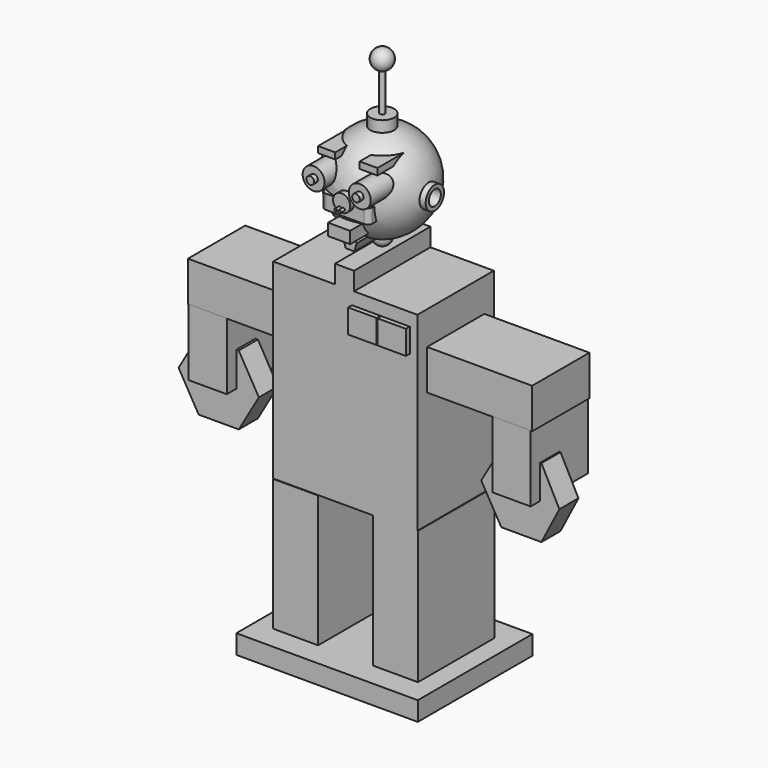
from build123d import *

# Parameters (mm, degrees)
F2_R      = 11.5
F3_DEPTH  = 60
F4_R      = 4
F5_DEPTH  = 65
F6_R      = 9
F7_DEPTH  = 55
F8_W      = 23
F8_H      = 12.369995437
F9_DEPTH  = 60
F10_W     = 18.0283002555
F10_H     = 6.5377391875
F10_W_2   = 18.622642383
F10_H_2   = 6.9339629263
F11_DEPTH = 45
F12_R     = 12
F13_DEPTH = 55
F14_R     = 12
F15_DEPTH = 55
F16_R     = 5
F17_DEPTH = 55
F17_TAPER = -3
F18_R     = 5
F19_DEPTH = 55
F19_TAPER = -3
F20_W     = 50
F20_H     = 15
F21_DEPTH = 50
F22_R     = 1.5
F23_DEPTH = 60
F24_R     = 12.5
F25_DEPTH = 60
F26_R     = 2.5
F27_DEPTH = 100
F31_DEPTH = 45
F34_W     = 20
F34_H     = 19
F35_DEPTH = 50
F36_W     = 110
F36_H     = 42
F37_DEPTH = 37.5
F36_W_2   = 100
F38_W     = 40
F38_H     = 70
F39_DEPTH = 37.5
F40_W     = 15
F40_H     = 25
F41_DEPTH = 55
F42_W     = 30
F42_H     = 25
F43_DEPTH = 55
F44_R     = 5
F46_DEPTH = 25
F47_W     = 47
F47_H     = 150
F48_DEPTH = 50
F49_W     = 190
F49_H     = 20
F50_DEPTH = 75


with BuildPart() as f1:
    # F0 (on Front) → F1 (revolve)
    with BuildSketch(Plane.XZ):
        with BuildLine():
            Line((0, 50), (0, -50))
            ThreePointArc((0, -50), (50, 0), (0, 50))
        make_face()
    revolve(axis=Axis((0, 0, 0), (0, 0, -1)))

    # F2 (on Front) → F3 (join)
    with BuildSketch(Plane.XZ):
        with Locations((-23.9083962179, 16.4130615757)):
            Circle(F2_R)
        with Locations((24.4058933078, 15.6637279039)):
            Circle(F2_R)
    extrude(amount=F3_DEPTH)

    # F4 (on Front) → F5 (join)
    with BuildSketch(Plane.XZ):
        with Locations((-23.4572058426, 16.7492137234)):
            Circle(F4_R)
        with Locations((24.4460367508, 16.152908656)):
            Circle(F4_R)
    extrude(amount=F5_DEPTH)

    # F6 (on Front) → F7 (join)
    with BuildSketch(Plane.XZ):
        with Locations((1.4495220945, 0)):
            Circle(F6_R)
    extrude(amount=F7_DEPTH)

    # F8 (on Front) → F9 (join)
    with BuildSketch(Plane.XZ):
        with Locations((2.7524938345, -25.5566034466)):
            Rectangle(F8_W, F8_H)
    extrude(amount=F9_DEPTH)

    # F10 (on Front) → F11 (join)
    with BuildSketch(Plane.XZ):
        with Locations((-22.2800616175, 34.570755437)):
            Rectangle(F10_W, F10_H)
        with Locations((21.6020131484, 34.3726435676)):
            Rectangle(F10_W_2, F10_H_2)
    extrude(amount=F11_DEPTH)

    # F12 (on Right) → F13 (join)
    with BuildSketch(Plane.YZ):
        Circle(F12_R)
    extrude(amount=-F13_DEPTH)

    # F14 (on Right) → F15 (join)
    with BuildSketch(Plane.YZ):
        Circle(F14_R)
    extrude(amount=F15_DEPTH)

    # F16 (on Right) → F17 (cut)
    with BuildSketch(Plane.YZ):
        Circle(F16_R)
    extrude(amount=F17_DEPTH, taper=F17_TAPER, mode=Mode.SUBTRACT)

    # F18 (on Right) → F19 (cut)
    with BuildSketch(Plane.YZ):
        Circle(F18_R)
    extrude(amount=-F19_DEPTH, taper=F19_TAPER, mode=Mode.SUBTRACT)

    # F20 (on Front) → F21 (join)
    with BuildSketch(Plane.XZ):
        with Locations((0.9302317107, -7.5)):
            Rectangle(F20_W, F20_H)
    extrude(amount=F21_DEPTH)

    # F22 (on Front) → F23 (join)
    with BuildSketch(Plane.XZ):
        with Locations((-0.7250620033, -5.1486683078)):
            Circle(F22_R)
        with Locations((3.2749379967, -5.1486683078)):
            Circle(F22_R)
    extrude(amount=F23_DEPTH)

    # F24 (on Top) → F25 (join)
    with BuildSketch(Plane.XY):
        Circle(F24_R)
    extrude(amount=F25_DEPTH)

    # F26 (on Top) → F27 (join)
    with BuildSketch(Plane.XY):
        Circle(F26_R)
    extrude(amount=F27_DEPTH)

    # F30 (on Front) → F31 (join)
    with BuildSketch(Plane.XZ):
        Polygon((-2.3694857564, -46.9150984141), (6.6305142436, -46.9150984141), (9.411667193, -38.3555897674), (2.1305142436, -33.0655224968), (-5.1506387058, -38.3555897674), align=None)
    extrude(amount=F31_DEPTH)

    # F44
    f44_edges = [f1.edges().sort_by_distance(p)[0] for p in [
        (-24.069768, -50, -7.5),
        (25.930232, -50, -7.5),
    ]]
    fillet(f44_edges, radius=F44_R)


with BuildPart() as f29:
    # F28 (on Front) → F29 (revolve)
    with BuildSketch(Plane.XZ):
        with BuildLine():
            Line((0, 120.5619385546), (0, 99.7685382063))
            ThreePointArc((0, 99.7685382063), (10.3967001741, 110.1652383804), (0, 120.5619385546))
        make_face()
    revolve(axis=Axis((0, 0, 110.1652383804), (0, 0, -1)))


with BuildPart() as f33:
    # F32 (on Front) → F33 (revolve)
    with BuildSketch(Plane.XZ):
        with BuildLine():
            Line((0, -43.6485756276), (0, -61.6485756276))
            ThreePointArc((0, -61.6485756276), (9, -52.6485756276), (0, -43.6485756276))
        make_face()
    revolve(axis=Axis((0, 0, -52.6485756276), (0, 0, -1)))

    # F34 (on Front) → F35 (join, symmetric)
    with BuildSketch(Plane.XZ):
        Polygon((76.7647246684, -280.5166527629), (76.7647246684, -80.5166527629), (10.4020354152, -80.5166527629), (-9.5979645848, -80.5166527629), (-74.2352753316, -80.5166527629), (-74.2352753316, -280.5166527629), align=None)
        with Locations((0.4020354152, -71.0166527629)):
            Rectangle(F34_W, F34_H)
    extrude(amount=F35_DEPTH, both=True)

    # F47 (on Front) → F48, piece 2 (join, symmetric)
    with BuildSketch(Plane.XZ):
        with Locations((53.8207172751, -354.5363664627)):
            Rectangle(F47_W, F47_H)
    extrude(amount=F48_DEPTH, both=True)


with BuildPart() as f37:
    # F36 (on Front) → F37 (new body, symmetric)
    with BuildSketch(Plane.XZ):
        with Locations((131.8383958936, -136.2291254997)):
            Rectangle(F36_W, F36_H)
    extrude(amount=F37_DEPTH, both=True)


with BuildPart() as f37b:
    # F36 (on Front) → F37, piece 2 (new body, symmetric)
    with BuildSketch(Plane.XZ):
        with Locations((-123.5000520945, -136.2291254997)):
            Rectangle(F36_W_2, F36_H)
    extrude(amount=F37_DEPTH, both=True)


with BuildPart() as f39:
    # F38 (on Front) → F39 (new body, symmetric)
    with BuildSketch(Plane.XZ):
        with Locations((-152.8072398901, -191.9764393568)):
            Rectangle(F38_W, F38_H)
    extrude(amount=F39_DEPTH, both=True)


with BuildPart() as f39b:
    # F38 (on Front) → F39, piece 2 (new body, symmetric)
    with BuildSketch(Plane.XZ):
        with Locations((165.3468352556, -191.9764393568)):
            Rectangle(F38_W, F38_H)
    extrude(amount=F39_DEPTH, both=True)


with BuildPart() as f41:
    # F40 (on Front) → F41 (new body)
    with BuildSketch(Plane.XZ):
        with Locations((61.2707389891, -106.5505698323)):
            Rectangle(F40_W, F40_H)
        with Locations((46.2707389891, -106.5505698323)):
            Rectangle(F40_W, F40_H)
    extrude(amount=F41_DEPTH)


with BuildPart() as f43:
    # F42 (on Front) → F43 (new body)
    with BuildSketch(Plane.XZ):
        with Locations((23.1294057891, -106.4991831779)):
            Rectangle(F42_W, F42_H)
    extrude(amount=F43_DEPTH)


with BuildPart() as f46:
    # F45 (on Front) → F46 (new body)
    with BuildSketch(Plane.XZ):
        Polygon((-172.2803616842, -263.6972337401), (-151.2803616842, -263.6972337401), (-151.2803616842, -190.9510998222), (-172.2803616842, -190.9510998222), (-193.2803616842, -227.3241667812), align=None)
        Polygon((-151.2803616842, -190.9510998222), (-151.2803616842, -263.6972337401), (-130.2803616842, -263.6972337401), (-109.2803616842, -227.3241667812), (-130.2803616842, -190.9510998222), align=None)
    extrude(amount=F46_DEPTH)


with BuildPart() as f46b:
    # F45 (on Front) → F46, piece 2 (new body)
    with BuildSketch(Plane.XZ):
        Polygon((144.5946969986, -264.4817710491), (165.5946969986, -264.4817710491), (165.5946969986, -191.7356371312), (144.5946969986, -191.7356371312), (123.5946969986, -228.1087040901), align=None)
        Polygon((165.5946969986, -191.7356371312), (165.5946969986, -264.4817710491), (186.5946969986, -264.4817710491), (205.3666710854, -228.1087040901), (186.5946969986, -191.7356371312), (165.5946969986, -190.9510998222), align=None)
    extrude(amount=F46_DEPTH)


with BuildPart() as f48:
    # F47 (on Front) → F48 (new body, symmetric)
    with BuildSketch(Plane.XZ):
        with Locations((-50.7104128003, -355.9288203716)):
            Rectangle(F47_W, F47_H)
    extrude(amount=F48_DEPTH, both=True)


with BuildPart() as f50:
    # F49 (on Front) → F50 (new body, symmetric)
    with BuildSketch(Plane.XZ):
        with Locations((2.1525013447, -428.9944588411)):
            Rectangle(F49_W, F49_H)
    extrude(amount=F50_DEPTH, both=True)


solid = Compound([f1.part, f29.part, f33.part, f37.part, f37b.part, f39.part, f39b.part, f41.part, f43.part, f46.part, f46b.part, f48.part, f50.part])
